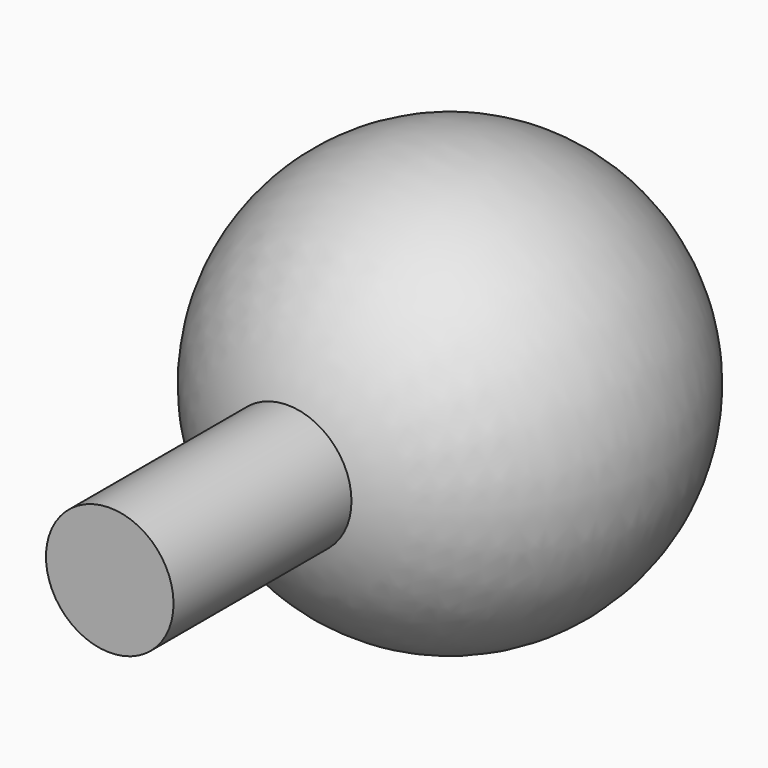
from build123d import *


with BuildPart() as f1:
    # F0 (on Top) → F1 (revolve)
    with BuildSketch(Plane.XY):
        with BuildLine():
            Line((1.5, -10), (1.5, -4.769696))
            ThreePointArc((1.5, -4.769696), (4.942089, 0.758788), (0, 5))
            Line((0, 5), (0, -10))
            Line((0, -10), (1.5, -10))
        make_face()
    revolve(axis=Axis((0, -3.007619, 0), (0, -1, 0)))


solid = f1.part
